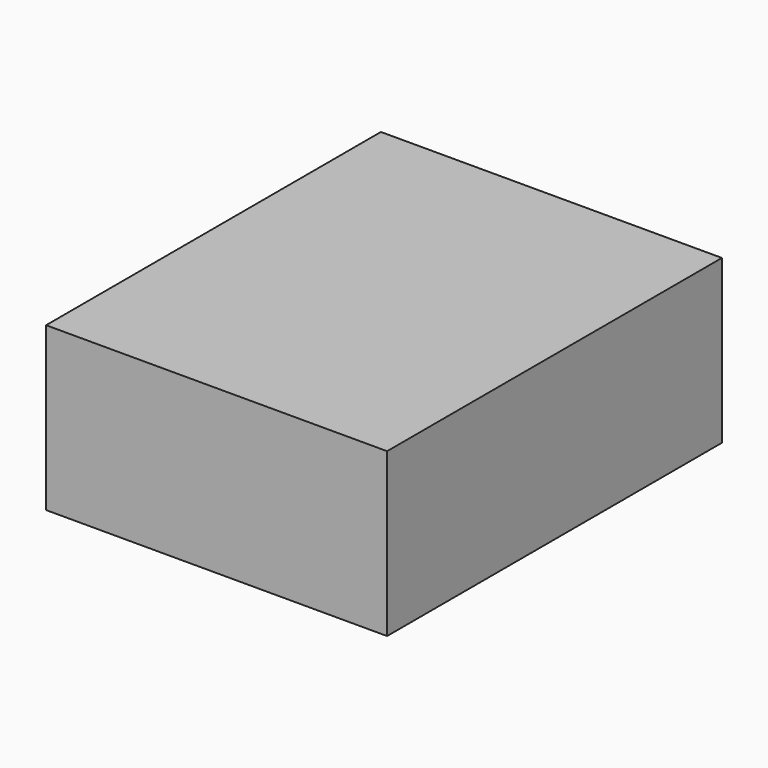
from build123d import *

# Parameters (mm, degrees)
F0_W     = 220
F0_H     = 270
F1_DEPTH = 52.5
F3_D     = 3.3
F3_DEPTH = 8
F3_TIP   = 0.9914200214


with BuildPart() as f1:
    # F0 (on Top) → F1 (new body, symmetric)
    with BuildSketch(Plane.XY):
        Rectangle(F0_W, F0_H)
    extrude(amount=F1_DEPTH, both=True)

    # F3
    with Locations(Plane(origin=(0, 0, -52.5), x_dir=(1, 0, 0), z_dir=(0, 0, -1))):
        with Locations((-80, -105), (-80, 103), (82, 103), (82, -105)):
            Hole(F3_D / 2, depth=F3_DEPTH)
            with Locations((0, 0, -(F3_DEPTH + F3_TIP / 2))):  # 118° drill point
                Cone(0, F3_D / 2, F3_TIP, mode=Mode.SUBTRACT)


solid = f1.part
